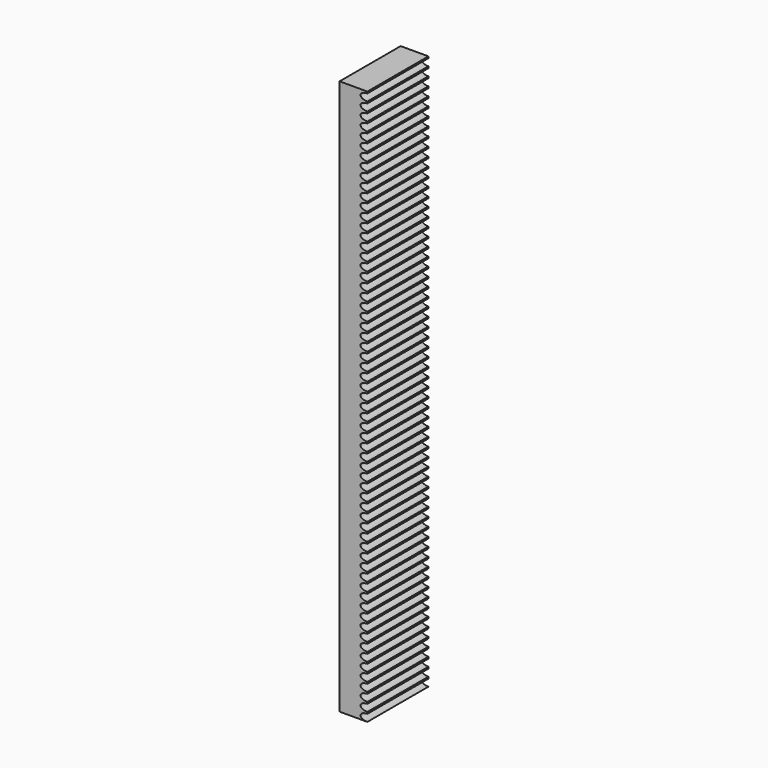
from build123d import *

# Parameters (mm, degrees)
F1_DEPTH = 21.9964


with BuildPart() as f1:
    # F0 (on Front) → F1 (new body)
    with BuildSketch(Plane.XZ):
        with BuildLine():
            Line((-22.3204804659, 103.0856406689), (-30.3204804659, 103.0856406689))
            Line((-30.3204804659, 103.0856406689), (-30.3204804659, -56.9143593311))
            Line((-30.3204804659, -56.9143593311), (-22.3204804659, -56.9143593311))
            add(Edge.make_bspline(
                [(-22.3204804659, -54.8823593311), (-24.3143804659, -54.8823593311), (-24.3143804659, -55.8983593311), (-24.3143804659, -56.9143593311), (-22.3204804659, -56.9143593311)],
                knots=[1.5707963268, 1.5707963268, 1.5707963268, 3.1415926536, 3.1415926536, 4.7123889804, 4.7123889804, 4.7123889804], degree=2, weights=[1, 0.7071067812, 1, 0.7071067812, 1]))
            Line((-22.3204804659, -54.8823593311), (-22.3204804659, -54.3743592933))
            add(Edge.make_bspline(
                [(-22.3204804659, -52.3423592933), (-24.3143804659, -52.3423592933), (-24.3143804659, -53.3583592933), (-24.3143804659, -54.3743592933), (-22.3204804659, -54.3743592933)],
                knots=[1.5707963268, 1.5707963268, 1.5707963268, 3.1415926536, 3.1415926536, 4.7123889804, 4.7123889804, 4.7123889804], degree=2, weights=[1, 0.7071067812, 1, 0.7071067812, 1]))
            Line((-22.3204804659, -52.3423592933), (-22.3204804659, -51.8343592554))
            add(Edge.make_bspline(
                [(-22.3204804659, -49.8023592554), (-24.3143804659, -49.8023592554), (-24.3143804659, -50.8183592554), (-24.3143804659, -51.8343592554), (-22.3204804659, -51.8343592554)],
                knots=[1.5707963268, 1.5707963268, 1.5707963268, 3.1415926536, 3.1415926536, 4.7123889804, 4.7123889804, 4.7123889804], degree=2, weights=[1, 0.7071067812, 1, 0.7071067812, 1]))
            Line((-22.3204804659, -49.8023592554), (-22.3204804659, -49.2943592176))
            add(Edge.make_bspline(
                [(-22.3204804659, -47.2623592176), (-24.3143804659, -47.2623592176), (-24.3143804659, -48.2783592176), (-24.3143804659, -49.2943592176), (-22.3204804659, -49.2943592176)],
                knots=[1.5707963268, 1.5707963268, 1.5707963268, 3.1415926536, 3.1415926536, 4.7123889804, 4.7123889804, 4.7123889804], degree=2, weights=[1, 0.7071067812, 1, 0.7071067812, 1]))
            Line((-22.3204804659, -47.2623592176), (-22.3204804659, -46.7543591797))
            add(Edge.make_bspline(
                [(-22.3204804659, -44.7223591797), (-24.3143804659, -44.7223591797), (-24.3143804659, -45.7383591797), (-24.3143804659, -46.7543591797), (-22.3204804659, -46.7543591797)],
                knots=[1.5707963268, 1.5707963268, 1.5707963268, 3.1415926536, 3.1415926536, 4.7123889804, 4.7123889804, 4.7123889804], degree=2, weights=[1, 0.7071067812, 1, 0.7071067812, 1]))
            Line((-22.3204804659, -44.7223591797), (-22.3204804659, -44.2143591419))
            add(Edge.make_bspline(
                [(-22.3204804659, -42.1823591419), (-24.3143804659, -42.1823591419), (-24.3143804659, -43.1983591419), (-24.3143804659, -44.2143591419), (-22.3204804659, -44.2143591419)],
                knots=[1.5707963268, 1.5707963268, 1.5707963268, 3.1415926536, 3.1415926536, 4.7123889804, 4.7123889804, 4.7123889804], degree=2, weights=[1, 0.7071067812, 1, 0.7071067812, 1]))
            Line((-22.3204804659, -42.1823591419), (-22.3204804659, -41.674359104))
            add(Edge.make_bspline(
                [(-22.3204804659, -39.642359104), (-24.3143804659, -39.642359104), (-24.3143804659, -40.658359104), (-24.3143804659, -41.674359104), (-22.3204804659, -41.674359104)],
                knots=[1.5707963268, 1.5707963268, 1.5707963268, 3.1415926536, 3.1415926536, 4.7123889804, 4.7123889804, 4.7123889804], degree=2, weights=[1, 0.7071067812, 1, 0.7071067812, 1]))
            Line((-22.3204804659, -39.642359104), (-22.3204804659, -39.1343590662))
            add(Edge.make_bspline(
                [(-22.3204804659, -37.1023590662), (-24.3143804659, -37.1023590662), (-24.3143804659, -38.1183590662), (-24.3143804659, -39.1343590662), (-22.3204804659, -39.1343590662)],
                knots=[1.5707963268, 1.5707963268, 1.5707963268, 3.1415926536, 3.1415926536, 4.7123889804, 4.7123889804, 4.7123889804], degree=2, weights=[1, 0.7071067812, 1, 0.7071067812, 1]))
            Line((-22.3204804659, -37.1023590662), (-22.3204804659, -36.5943590283))
            add(Edge.make_bspline(
                [(-22.3204804659, -34.5623590283), (-24.3143804659, -34.5623590283), (-24.3143804659, -35.5783590283), (-24.3143804659, -36.5943590283), (-22.3204804659, -36.5943590283)],
                knots=[1.5707963268, 1.5707963268, 1.5707963268, 3.1415926536, 3.1415926536, 4.7123889804, 4.7123889804, 4.7123889804], degree=2, weights=[1, 0.7071067812, 1, 0.7071067812, 1]))
            Line((-22.3204804659, -34.5623590283), (-22.3204804659, -34.0543589905))
            add(Edge.make_bspline(
                [(-22.3204804659, -32.0223589905), (-24.3143804659, -32.0223589905), (-24.3143804659, -33.0383589905), (-24.3143804659, -34.0543589905), (-22.3204804659, -34.0543589905)],
                knots=[1.5707963268, 1.5707963268, 1.5707963268, 3.1415926536, 3.1415926536, 4.7123889804, 4.7123889804, 4.7123889804], degree=2, weights=[1, 0.7071067812, 1, 0.7071067812, 1]))
            Line((-22.3204804659, -32.0223589905), (-22.3204804659, -31.5143589526))
            add(Edge.make_bspline(
                [(-22.3204804659, -29.4823589526), (-24.3143804659, -29.4823589526), (-24.3143804659, -30.4983589526), (-24.3143804659, -31.5143589526), (-22.3204804659, -31.5143589526)],
                knots=[1.5707963268, 1.5707963268, 1.5707963268, 3.1415926536, 3.1415926536, 4.7123889804, 4.7123889804, 4.7123889804], degree=2, weights=[1, 0.7071067812, 1, 0.7071067812, 1]))
            Line((-22.3204804659, -29.4823589526), (-22.3204804659, -28.9743589148))
            add(Edge.make_bspline(
                [(-22.3204804659, -26.9423589148), (-24.3143804659, -26.9423589148), (-24.3143804659, -27.9583589148), (-24.3143804659, -28.9743589148), (-22.3204804659, -28.9743589148)],
                knots=[1.5707963268, 1.5707963268, 1.5707963268, 3.1415926536, 3.1415926536, 4.7123889804, 4.7123889804, 4.7123889804], degree=2, weights=[1, 0.7071067812, 1, 0.7071067812, 1]))
            Line((-22.3204804659, -26.9423589148), (-22.3204804659, -26.4343588769))
            add(Edge.make_bspline(
                [(-22.3204804659, -24.4023588769), (-24.3143804659, -24.4023588769), (-24.3143804659, -25.4183588769), (-24.3143804659, -26.4343588769), (-22.3204804659, -26.4343588769)],
                knots=[1.5707963268, 1.5707963268, 1.5707963268, 3.1415926536, 3.1415926536, 4.7123889804, 4.7123889804, 4.7123889804], degree=2, weights=[1, 0.7071067812, 1, 0.7071067812, 1]))
            Line((-22.3204804659, -24.4023588769), (-22.3204804659, -23.8943588391))
            add(Edge.make_bspline(
                [(-22.3204804659, -21.8623588391), (-24.3143804659, -21.8623588391), (-24.3143804659, -22.8783588391), (-24.3143804659, -23.8943588391), (-22.3204804659, -23.8943588391)],
                knots=[1.5707963268, 1.5707963268, 1.5707963268, 3.1415926536, 3.1415926536, 4.7123889804, 4.7123889804, 4.7123889804], degree=2, weights=[1, 0.7071067812, 1, 0.7071067812, 1]))
            Line((-22.3204804659, -21.8623588391), (-22.3204804659, -21.3543588012))
            add(Edge.make_bspline(
                [(-22.3204804659, -19.3223588012), (-24.3143804659, -19.3223588012), (-24.3143804659, -20.3383588012), (-24.3143804659, -21.3543588012), (-22.3204804659, -21.3543588012)],
                knots=[1.5707963268, 1.5707963268, 1.5707963268, 3.1415926536, 3.1415926536, 4.7123889804, 4.7123889804, 4.7123889804], degree=2, weights=[1, 0.7071067812, 1, 0.7071067812, 1]))
            Line((-22.3204804659, -19.3223588012), (-22.3204804659, -18.8143587634))
            add(Edge.make_bspline(
                [(-22.3204804659, -16.7823587634), (-24.3143804659, -16.7823587634), (-24.3143804659, -17.7983587634), (-24.3143804659, -18.8143587634), (-22.3204804659, -18.8143587634)],
                knots=[1.5707963268, 1.5707963268, 1.5707963268, 3.1415926536, 3.1415926536, 4.7123889804, 4.7123889804, 4.7123889804], degree=2, weights=[1, 0.7071067812, 1, 0.7071067812, 1]))
            Line((-22.3204804659, -16.7823587634), (-22.3204804659, -16.2743587255))
            add(Edge.make_bspline(
                [(-22.3204804659, -14.2423587255), (-24.3143804659, -14.2423587255), (-24.3143804659, -15.2583587255), (-24.3143804659, -16.2743587255), (-22.3204804659, -16.2743587255)],
                knots=[1.5707963268, 1.5707963268, 1.5707963268, 3.1415926536, 3.1415926536, 4.7123889804, 4.7123889804, 4.7123889804], degree=2, weights=[1, 0.7071067812, 1, 0.7071067812, 1]))
            Line((-22.3204804659, -14.2423587255), (-22.3204804659, -13.7343586877))
            add(Edge.make_bspline(
                [(-22.3204804659, -11.7023586877), (-24.3143804659, -11.7023586877), (-24.3143804659, -12.7183586877), (-24.3143804659, -13.7343586877), (-22.3204804659, -13.7343586877)],
                knots=[1.5707963268, 1.5707963268, 1.5707963268, 3.1415926536, 3.1415926536, 4.7123889804, 4.7123889804, 4.7123889804], degree=2, weights=[1, 0.7071067812, 1, 0.7071067812, 1]))
            Line((-22.3204804659, -11.7023586877), (-22.3204804659, -11.1943586498))
            add(Edge.make_bspline(
                [(-22.3204804659, -9.1623586498), (-24.3143804659, -9.1623586498), (-24.3143804659, -10.1783586498), (-24.3143804659, -11.1943586498), (-22.3204804659, -11.1943586498)],
                knots=[1.5707963268, 1.5707963268, 1.5707963268, 3.1415926536, 3.1415926536, 4.7123889804, 4.7123889804, 4.7123889804], degree=2, weights=[1, 0.7071067812, 1, 0.7071067812, 1]))
            Line((-22.3204804659, -9.1623586498), (-22.3204804659, -8.654358612))
            add(Edge.make_bspline(
                [(-22.3204804659, -6.622358612), (-24.3143804659, -6.622358612), (-24.3143804659, -7.638358612), (-24.3143804659, -8.654358612), (-22.3204804659, -8.654358612)],
                knots=[1.5707963268, 1.5707963268, 1.5707963268, 3.1415926536, 3.1415926536, 4.7123889804, 4.7123889804, 4.7123889804], degree=2, weights=[1, 0.7071067812, 1, 0.7071067812, 1]))
            Line((-22.3204804659, -6.622358612), (-22.3204804659, -6.1143585742))
            add(Edge.make_bspline(
                [(-22.3204804659, -4.0823585742), (-24.3143804659, -4.0823585742), (-24.3143804659, -5.0983585742), (-24.3143804659, -6.1143585742), (-22.3204804659, -6.1143585742)],
                knots=[1.5707963268, 1.5707963268, 1.5707963268, 3.1415926536, 3.1415926536, 4.7123889804, 4.7123889804, 4.7123889804], degree=2, weights=[1, 0.7071067812, 1, 0.7071067812, 1]))
            Line((-22.3204804659, -4.0823585742), (-22.3204804659, -3.5743585363))
            add(Edge.make_bspline(
                [(-22.3204804659, -1.5423585363), (-24.3143804659, -1.5423585363), (-24.3143804659, -2.5583585363), (-24.3143804659, -3.5743585363), (-22.3204804659, -3.5743585363)],
                knots=[1.5707963268, 1.5707963268, 1.5707963268, 3.1415926536, 3.1415926536, 4.7123889804, 4.7123889804, 4.7123889804], degree=2, weights=[1, 0.7071067812, 1, 0.7071067812, 1]))
            Line((-22.3204804659, -1.5423585363), (-22.3204804659, -1.0343584985))
            add(Edge.make_bspline(
                [(-22.3204804659, 0.9976415015), (-24.3143804659, 0.9976415015), (-24.3143804659, -0.0183584985), (-24.3143804659, -1.0343584985), (-22.3204804659, -1.0343584985)],
                knots=[1.5707963268, 1.5707963268, 1.5707963268, 3.1415926536, 3.1415926536, 4.7123889804, 4.7123889804, 4.7123889804], degree=2, weights=[1, 0.7071067812, 1, 0.7071067812, 1]))
            Line((-22.3204804659, 0.9976415015), (-22.3204804659, 1.5056415394))
            add(Edge.make_bspline(
                [(-22.3204804659, 3.5376415394), (-24.3143804659, 3.5376415394), (-24.3143804659, 2.5216415394), (-24.3143804659, 1.5056415394), (-22.3204804659, 1.5056415394)],
                knots=[1.5707963268, 1.5707963268, 1.5707963268, 3.1415926536, 3.1415926536, 4.7123889804, 4.7123889804, 4.7123889804], degree=2, weights=[1, 0.7071067812, 1, 0.7071067812, 1]))
            Line((-22.3204804659, 3.5376415394), (-22.3204804659, 4.0456415772))
            add(Edge.make_bspline(
                [(-22.3204804659, 6.0776415772), (-24.3143804659, 6.0776415772), (-24.3143804659, 5.0616415772), (-24.3143804659, 4.0456415772), (-22.3204804659, 4.0456415772)],
                knots=[1.5707963268, 1.5707963268, 1.5707963268, 3.1415926536, 3.1415926536, 4.7123889804, 4.7123889804, 4.7123889804], degree=2, weights=[1, 0.7071067812, 1, 0.7071067812, 1]))
            Line((-22.3204804659, 6.0776415772), (-22.3204804659, 6.5856416151))
            add(Edge.make_bspline(
                [(-22.3204804659, 8.6176416151), (-24.3143804659, 8.6176416151), (-24.3143804659, 7.6016416151), (-24.3143804659, 6.5856416151), (-22.3204804659, 6.5856416151)],
                knots=[1.5707963268, 1.5707963268, 1.5707963268, 3.1415926536, 3.1415926536, 4.7123889804, 4.7123889804, 4.7123889804], degree=2, weights=[1, 0.7071067812, 1, 0.7071067812, 1]))
            Line((-22.3204804659, 8.6176416151), (-22.3204804659, 9.1256416529))
            add(Edge.make_bspline(
                [(-22.3204804659, 11.1576416529), (-24.3143804659, 11.1576416529), (-24.3143804659, 10.1416416529), (-24.3143804659, 9.1256416529), (-22.3204804659, 9.1256416529)],
                knots=[1.5707963268, 1.5707963268, 1.5707963268, 3.1415926536, 3.1415926536, 4.7123889804, 4.7123889804, 4.7123889804], degree=2, weights=[1, 0.7071067812, 1, 0.7071067812, 1]))
            Line((-22.3204804659, 11.1576416529), (-22.3204804659, 11.6656416908))
            add(Edge.make_bspline(
                [(-22.3204804659, 13.6976416908), (-24.3143804659, 13.6976416908), (-24.3143804659, 12.6816416908), (-24.3143804659, 11.6656416908), (-22.3204804659, 11.6656416908)],
                knots=[1.5707963268, 1.5707963268, 1.5707963268, 3.1415926536, 3.1415926536, 4.7123889804, 4.7123889804, 4.7123889804], degree=2, weights=[1, 0.7071067812, 1, 0.7071067812, 1]))
            Line((-22.3204804659, 13.6976416908), (-22.3204804659, 14.2056417286))
            add(Edge.make_bspline(
                [(-22.3204804659, 16.2376417286), (-24.3143804659, 16.2376417286), (-24.3143804659, 15.2216417286), (-24.3143804659, 14.2056417286), (-22.3204804659, 14.2056417286)],
                knots=[1.5707963268, 1.5707963268, 1.5707963268, 3.1415926536, 3.1415926536, 4.7123889804, 4.7123889804, 4.7123889804], degree=2, weights=[1, 0.7071067812, 1, 0.7071067812, 1]))
            Line((-22.3204804659, 16.2376417286), (-22.3204804659, 16.7456417665))
            add(Edge.make_bspline(
                [(-22.3204804659, 18.7776417665), (-24.3143804659, 18.7776417665), (-24.3143804659, 17.7616417665), (-24.3143804659, 16.7456417665), (-22.3204804659, 16.7456417665)],
                knots=[1.5707963268, 1.5707963268, 1.5707963268, 3.1415926536, 3.1415926536, 4.7123889804, 4.7123889804, 4.7123889804], degree=2, weights=[1, 0.7071067812, 1, 0.7071067812, 1]))
            Line((-22.3204804659, 18.7776417665), (-22.3204804659, 19.2856418043))
            add(Edge.make_bspline(
                [(-22.3204804659, 21.3176418043), (-24.3143804659, 21.3176418043), (-24.3143804659, 20.3016418043), (-24.3143804659, 19.2856418043), (-22.3204804659, 19.2856418043)],
                knots=[1.5707963268, 1.5707963268, 1.5707963268, 3.1415926536, 3.1415926536, 4.7123889804, 4.7123889804, 4.7123889804], degree=2, weights=[1, 0.7071067812, 1, 0.7071067812, 1]))
            Line((-22.3204804659, 21.3176418043), (-22.3204804659, 21.8256418422))
            add(Edge.make_bspline(
                [(-22.3204804659, 23.8576418422), (-24.3143804659, 23.8576418422), (-24.3143804659, 22.8416418422), (-24.3143804659, 21.8256418422), (-22.3204804659, 21.8256418422)],
                knots=[1.5707963268, 1.5707963268, 1.5707963268, 3.1415926536, 3.1415926536, 4.7123889804, 4.7123889804, 4.7123889804], degree=2, weights=[1, 0.7071067812, 1, 0.7071067812, 1]))
            Line((-22.3204804659, 23.8576418422), (-22.3204804659, 24.36564188))
            add(Edge.make_bspline(
                [(-22.3204804659, 26.39764188), (-24.3143804659, 26.39764188), (-24.3143804659, 25.38164188), (-24.3143804659, 24.36564188), (-22.3204804659, 24.36564188)],
                knots=[1.5707963268, 1.5707963268, 1.5707963268, 3.1415926536, 3.1415926536, 4.7123889804, 4.7123889804, 4.7123889804], degree=2, weights=[1, 0.7071067812, 1, 0.7071067812, 1]))
            Line((-22.3204804659, 26.39764188), (-22.3204804659, 26.9056419179))
            add(Edge.make_bspline(
                [(-22.3204804659, 28.9376419179), (-24.3143804659, 28.9376419179), (-24.3143804659, 27.9216419179), (-24.3143804659, 26.9056419179), (-22.3204804659, 26.9056419179)],
                knots=[1.5707963268, 1.5707963268, 1.5707963268, 3.1415926536, 3.1415926536, 4.7123889804, 4.7123889804, 4.7123889804], degree=2, weights=[1, 0.7071067812, 1, 0.7071067812, 1]))
            Line((-22.3204804659, 28.9376419179), (-22.3204804659, 29.4456419557))
            add(Edge.make_bspline(
                [(-22.3204804659, 31.4776419557), (-24.3143804659, 31.4776419557), (-24.3143804659, 30.4616419557), (-24.3143804659, 29.4456419557), (-22.3204804659, 29.4456419557)],
                knots=[1.5707963268, 1.5707963268, 1.5707963268, 3.1415926536, 3.1415926536, 4.7123889804, 4.7123889804, 4.7123889804], degree=2, weights=[1, 0.7071067812, 1, 0.7071067812, 1]))
            Line((-22.3204804659, 31.4776419557), (-22.3204804659, 31.9856419936))
            add(Edge.make_bspline(
                [(-22.3204804659, 34.0176419936), (-24.3143804659, 34.0176419936), (-24.3143804659, 33.0016419936), (-24.3143804659, 31.9856419936), (-22.3204804659, 31.9856419936)],
                knots=[1.5707963268, 1.5707963268, 1.5707963268, 3.1415926536, 3.1415926536, 4.7123889804, 4.7123889804, 4.7123889804], degree=2, weights=[1, 0.7071067812, 1, 0.7071067812, 1]))
            Line((-22.3204804659, 34.0176419936), (-22.3204804659, 34.5256420314))
            add(Edge.make_bspline(
                [(-22.3204804659, 36.5576420314), (-24.3143804659, 36.5576420314), (-24.3143804659, 35.5416420314), (-24.3143804659, 34.5256420314), (-22.3204804659, 34.5256420314)],
                knots=[1.5707963268, 1.5707963268, 1.5707963268, 3.1415926536, 3.1415926536, 4.7123889804, 4.7123889804, 4.7123889804], degree=2, weights=[1, 0.7071067812, 1, 0.7071067812, 1]))
            Line((-22.3204804659, 36.5576420314), (-22.3204804659, 37.0656420693))
            add(Edge.make_bspline(
                [(-22.3204804659, 39.0976420693), (-24.3143804659, 39.0976420693), (-24.3143804659, 38.0816420693), (-24.3143804659, 37.0656420693), (-22.3204804659, 37.0656420693)],
                knots=[1.5707963268, 1.5707963268, 1.5707963268, 3.1415926536, 3.1415926536, 4.7123889804, 4.7123889804, 4.7123889804], degree=2, weights=[1, 0.7071067812, 1, 0.7071067812, 1]))
            Line((-22.3204804659, 39.0976420693), (-22.3204804659, 39.6056421071))
            add(Edge.make_bspline(
                [(-22.3204804659, 41.6376421071), (-24.3143804659, 41.6376421071), (-24.3143804659, 40.6216421071), (-24.3143804659, 39.6056421071), (-22.3204804659, 39.6056421071)],
                knots=[1.5707963268, 1.5707963268, 1.5707963268, 3.1415926536, 3.1415926536, 4.7123889804, 4.7123889804, 4.7123889804], degree=2, weights=[1, 0.7071067812, 1, 0.7071067812, 1]))
            Line((-22.3204804659, 41.6376421071), (-22.3204804659, 42.145642145))
            add(Edge.make_bspline(
                [(-22.3204804659, 44.177642145), (-24.3143804659, 44.177642145), (-24.3143804659, 43.161642145), (-24.3143804659, 42.145642145), (-22.3204804659, 42.145642145)],
                knots=[1.5707963268, 1.5707963268, 1.5707963268, 3.1415926536, 3.1415926536, 4.7123889804, 4.7123889804, 4.7123889804], degree=2, weights=[1, 0.7071067812, 1, 0.7071067812, 1]))
            Line((-22.3204804659, 44.177642145), (-22.3204804659, 44.6856421828))
            add(Edge.make_bspline(
                [(-22.3204804659, 46.7176421828), (-24.3143804659, 46.7176421828), (-24.3143804659, 45.7016421828), (-24.3143804659, 44.6856421828), (-22.3204804659, 44.6856421828)],
                knots=[1.5707963268, 1.5707963268, 1.5707963268, 3.1415926536, 3.1415926536, 4.7123889804, 4.7123889804, 4.7123889804], degree=2, weights=[1, 0.7071067812, 1, 0.7071067812, 1]))
            Line((-22.3204804659, 46.7176421828), (-22.3204804659, 47.2256422207))
            add(Edge.make_bspline(
                [(-22.3204804659, 49.2576422207), (-24.3143804659, 49.2576422207), (-24.3143804659, 48.2416422207), (-24.3143804659, 47.2256422207), (-22.3204804659, 47.2256422207)],
                knots=[1.5707963268, 1.5707963268, 1.5707963268, 3.1415926536, 3.1415926536, 4.7123889804, 4.7123889804, 4.7123889804], degree=2, weights=[1, 0.7071067812, 1, 0.7071067812, 1]))
            Line((-22.3204804659, 49.2576422207), (-22.3204804659, 49.7656422585))
            add(Edge.make_bspline(
                [(-22.3204804659, 51.7976422585), (-24.3143804659, 51.7976422585), (-24.3143804659, 50.7816422585), (-24.3143804659, 49.7656422585), (-22.3204804659, 49.7656422585)],
                knots=[1.5707963268, 1.5707963268, 1.5707963268, 3.1415926536, 3.1415926536, 4.7123889804, 4.7123889804, 4.7123889804], degree=2, weights=[1, 0.7071067812, 1, 0.7071067812, 1]))
            Line((-22.3204804659, 51.7976422585), (-22.3204804659, 52.3056422964))
            add(Edge.make_bspline(
                [(-22.3204804659, 54.3376422964), (-24.3143804659, 54.3376422964), (-24.3143804659, 53.3216422964), (-24.3143804659, 52.3056422964), (-22.3204804659, 52.3056422964)],
                knots=[1.5707963268, 1.5707963268, 1.5707963268, 3.1415926536, 3.1415926536, 4.7123889804, 4.7123889804, 4.7123889804], degree=2, weights=[1, 0.7071067812, 1, 0.7071067812, 1]))
            Line((-22.3204804659, 54.3376422964), (-22.3204804659, 54.8456423342))
            add(Edge.make_bspline(
                [(-22.3204804659, 56.8776423342), (-24.3143804659, 56.8776423342), (-24.3143804659, 55.8616423342), (-24.3143804659, 54.8456423342), (-22.3204804659, 54.8456423342)],
                knots=[1.5707963268, 1.5707963268, 1.5707963268, 3.1415926536, 3.1415926536, 4.7123889804, 4.7123889804, 4.7123889804], degree=2, weights=[1, 0.7071067812, 1, 0.7071067812, 1]))
            Line((-22.3204804659, 56.8776423342), (-22.3204804659, 57.3856423721))
            add(Edge.make_bspline(
                [(-22.3204804659, 59.4176423721), (-24.3143804659, 59.4176423721), (-24.3143804659, 58.4016423721), (-24.3143804659, 57.3856423721), (-22.3204804659, 57.3856423721)],
                knots=[1.5707963268, 1.5707963268, 1.5707963268, 3.1415926536, 3.1415926536, 4.7123889804, 4.7123889804, 4.7123889804], degree=2, weights=[1, 0.7071067812, 1, 0.7071067812, 1]))
            Line((-22.3204804659, 59.4176423721), (-22.3204804659, 59.9256424099))
            add(Edge.make_bspline(
                [(-22.3204804659, 61.9576424099), (-24.3143804659, 61.9576424099), (-24.3143804659, 60.9416424099), (-24.3143804659, 59.9256424099), (-22.3204804659, 59.9256424099)],
                knots=[1.5707963268, 1.5707963268, 1.5707963268, 3.1415926536, 3.1415926536, 4.7123889804, 4.7123889804, 4.7123889804], degree=2, weights=[1, 0.7071067812, 1, 0.7071067812, 1]))
            Line((-22.3204804659, 61.9576424099), (-22.3204804659, 62.4656424478))
            add(Edge.make_bspline(
                [(-22.3204804659, 64.4976424478), (-24.3143804659, 64.4976424478), (-24.3143804659, 63.4816424478), (-24.3143804659, 62.4656424478), (-22.3204804659, 62.4656424478)],
                knots=[1.5707963268, 1.5707963268, 1.5707963268, 3.1415926536, 3.1415926536, 4.7123889804, 4.7123889804, 4.7123889804], degree=2, weights=[1, 0.7071067812, 1, 0.7071067812, 1]))
            Line((-22.3204804659, 64.4976424478), (-22.3204804659, 65.0056424856))
            add(Edge.make_bspline(
                [(-22.3204804659, 67.0376424856), (-24.3143804659, 67.0376424856), (-24.3143804659, 66.0216424856), (-24.3143804659, 65.0056424856), (-22.3204804659, 65.0056424856)],
                knots=[1.5707963268, 1.5707963268, 1.5707963268, 3.1415926536, 3.1415926536, 4.7123889804, 4.7123889804, 4.7123889804], degree=2, weights=[1, 0.7071067812, 1, 0.7071067812, 1]))
            Line((-22.3204804659, 67.0376424856), (-22.3204804659, 67.5456425235))
            add(Edge.make_bspline(
                [(-22.3204804659, 69.5776425235), (-24.3143804659, 69.5776425235), (-24.3143804659, 68.5616425235), (-24.3143804659, 67.5456425235), (-22.3204804659, 67.5456425235)],
                knots=[1.5707963268, 1.5707963268, 1.5707963268, 3.1415926536, 3.1415926536, 4.7123889804, 4.7123889804, 4.7123889804], degree=2, weights=[1, 0.7071067812, 1, 0.7071067812, 1]))
            Line((-22.3204804659, 69.5776425235), (-22.3204804659, 70.0856425613))
            add(Edge.make_bspline(
                [(-22.3204804659, 72.1176425613), (-24.3143804659, 72.1176425613), (-24.3143804659, 71.1016425613), (-24.3143804659, 70.0856425613), (-22.3204804659, 70.0856425613)],
                knots=[1.5707963268, 1.5707963268, 1.5707963268, 3.1415926536, 3.1415926536, 4.7123889804, 4.7123889804, 4.7123889804], degree=2, weights=[1, 0.7071067812, 1, 0.7071067812, 1]))
            Line((-22.3204804659, 72.1176425613), (-22.3204804659, 72.6256425992))
            add(Edge.make_bspline(
                [(-22.3204804659, 74.6576425992), (-24.3143804659, 74.6576425992), (-24.3143804659, 73.6416425992), (-24.3143804659, 72.6256425992), (-22.3204804659, 72.6256425992)],
                knots=[1.5707963268, 1.5707963268, 1.5707963268, 3.1415926536, 3.1415926536, 4.7123889804, 4.7123889804, 4.7123889804], degree=2, weights=[1, 0.7071067812, 1, 0.7071067812, 1]))
            Line((-22.3204804659, 74.6576425992), (-22.3204804659, 75.165642637))
            add(Edge.make_bspline(
                [(-22.3204804659, 77.197642637), (-24.3143804659, 77.197642637), (-24.3143804659, 76.181642637), (-24.3143804659, 75.165642637), (-22.3204804659, 75.165642637)],
                knots=[1.5707963268, 1.5707963268, 1.5707963268, 3.1415926536, 3.1415926536, 4.7123889804, 4.7123889804, 4.7123889804], degree=2, weights=[1, 0.7071067812, 1, 0.7071067812, 1]))
            Line((-22.3204804659, 77.197642637), (-22.3204804659, 77.7056426749))
            add(Edge.make_bspline(
                [(-22.3204804659, 79.7376426749), (-24.3143804659, 79.7376426749), (-24.3143804659, 78.7216426749), (-24.3143804659, 77.7056426749), (-22.3204804659, 77.7056426749)],
                knots=[1.5707963268, 1.5707963268, 1.5707963268, 3.1415926536, 3.1415926536, 4.7123889804, 4.7123889804, 4.7123889804], degree=2, weights=[1, 0.7071067812, 1, 0.7071067812, 1]))
            Line((-22.3204804659, 79.7376426749), (-22.3204804659, 80.2456427127))
            add(Edge.make_bspline(
                [(-22.3204804659, 82.2776427127), (-24.3143804659, 82.2776427127), (-24.3143804659, 81.2616427127), (-24.3143804659, 80.2456427127), (-22.3204804659, 80.2456427127)],
                knots=[1.5707963268, 1.5707963268, 1.5707963268, 3.1415926536, 3.1415926536, 4.7123889804, 4.7123889804, 4.7123889804], degree=2, weights=[1, 0.7071067812, 1, 0.7071067812, 1]))
            Line((-22.3204804659, 82.2776427127), (-22.3204804659, 82.7856427506))
            add(Edge.make_bspline(
                [(-22.3204804659, 84.8176427506), (-24.3143804659, 84.8176427506), (-24.3143804659, 83.8016427506), (-24.3143804659, 82.7856427506), (-22.3204804659, 82.7856427506)],
                knots=[1.5707963268, 1.5707963268, 1.5707963268, 3.1415926536, 3.1415926536, 4.7123889804, 4.7123889804, 4.7123889804], degree=2, weights=[1, 0.7071067812, 1, 0.7071067812, 1]))
            Line((-22.3204804659, 84.8176427506), (-22.3204804659, 85.3256427884))
            add(Edge.make_bspline(
                [(-22.3204804659, 87.3576427884), (-24.3143804659, 87.3576427884), (-24.3143804659, 86.3416427884), (-24.3143804659, 85.3256427884), (-22.3204804659, 85.3256427884)],
                knots=[1.5707963268, 1.5707963268, 1.5707963268, 3.1415926536, 3.1415926536, 4.7123889804, 4.7123889804, 4.7123889804], degree=2, weights=[1, 0.7071067812, 1, 0.7071067812, 1]))
            Line((-22.3204804659, 87.3576427884), (-22.3204804659, 87.8656428263))
            add(Edge.make_bspline(
                [(-22.3204804659, 89.8976428263), (-24.3143804659, 89.8976428263), (-24.3143804659, 88.8816428263), (-24.3143804659, 87.8656428263), (-22.3204804659, 87.8656428263)],
                knots=[1.5707963268, 1.5707963268, 1.5707963268, 3.1415926536, 3.1415926536, 4.7123889804, 4.7123889804, 4.7123889804], degree=2, weights=[1, 0.7071067812, 1, 0.7071067812, 1]))
            Line((-22.3204804659, 89.8976428263), (-22.3204804659, 90.4056428641))
            add(Edge.make_bspline(
                [(-22.3204804659, 92.4376428641), (-24.3143804659, 92.4376428641), (-24.3143804659, 91.4216428641), (-24.3143804659, 90.4056428641), (-22.3204804659, 90.4056428641)],
                knots=[1.5707963268, 1.5707963268, 1.5707963268, 3.1415926536, 3.1415926536, 4.7123889804, 4.7123889804, 4.7123889804], degree=2, weights=[1, 0.7071067812, 1, 0.7071067812, 1]))
            Line((-22.3204804659, 92.4376428641), (-22.3204804659, 92.945642902))
            add(Edge.make_bspline(
                [(-22.3204804659, 94.977642902), (-24.3143804659, 94.977642902), (-24.3143804659, 93.961642902), (-24.3143804659, 92.945642902), (-22.3204804659, 92.945642902)],
                knots=[1.5707963268, 1.5707963268, 1.5707963268, 3.1415926536, 3.1415926536, 4.7123889804, 4.7123889804, 4.7123889804], degree=2, weights=[1, 0.7071067812, 1, 0.7071067812, 1]))
            Line((-22.3204804659, 94.977642902), (-22.3204804659, 95.4856429398))
            add(Edge.make_bspline(
                [(-22.3204804659, 97.5176429398), (-24.3143804659, 97.5176429398), (-24.3143804659, 96.5016429398), (-24.3143804659, 95.4856429398), (-22.3204804659, 95.4856429398)],
                knots=[1.5707963268, 1.5707963268, 1.5707963268, 3.1415926536, 3.1415926536, 4.7123889804, 4.7123889804, 4.7123889804], degree=2, weights=[1, 0.7071067812, 1, 0.7071067812, 1]))
            Line((-22.3204804659, 97.5176429398), (-22.3204804659, 98.0256429777))
            add(Edge.make_bspline(
                [(-22.3204804659, 100.0576429777), (-24.3143804659, 100.0576429777), (-24.3143804659, 99.0416429777), (-24.3143804659, 98.0256429777), (-22.3204804659, 98.0256429777)],
                knots=[1.5707963268, 1.5707963268, 1.5707963268, 3.1415926536, 3.1415926536, 4.7123889804, 4.7123889804, 4.7123889804], degree=2, weights=[1, 0.7071067812, 1, 0.7071067812, 1]))
            Line((-22.3204804659, 100.0576429777), (-22.3204804659, 100.5656430155))
            add(Edge.make_bspline(
                [(-22.3204804659, 102.5976430155), (-24.3143804659, 102.5976430155), (-24.3143804659, 101.5816430155), (-24.3143804659, 100.5656430155), (-22.3204804659, 100.5656430155)],
                knots=[1.5707963268, 1.5707963268, 1.5707963268, 3.1415926536, 3.1415926536, 4.7123889804, 4.7123889804, 4.7123889804], degree=2, weights=[1, 0.7071067812, 1, 0.7071067812, 1]))
            Line((-22.3204804659, 102.5976430155), (-22.3204804659, 103.0856406689))
        make_face()
    extrude(amount=F1_DEPTH)


solid = f1.part
